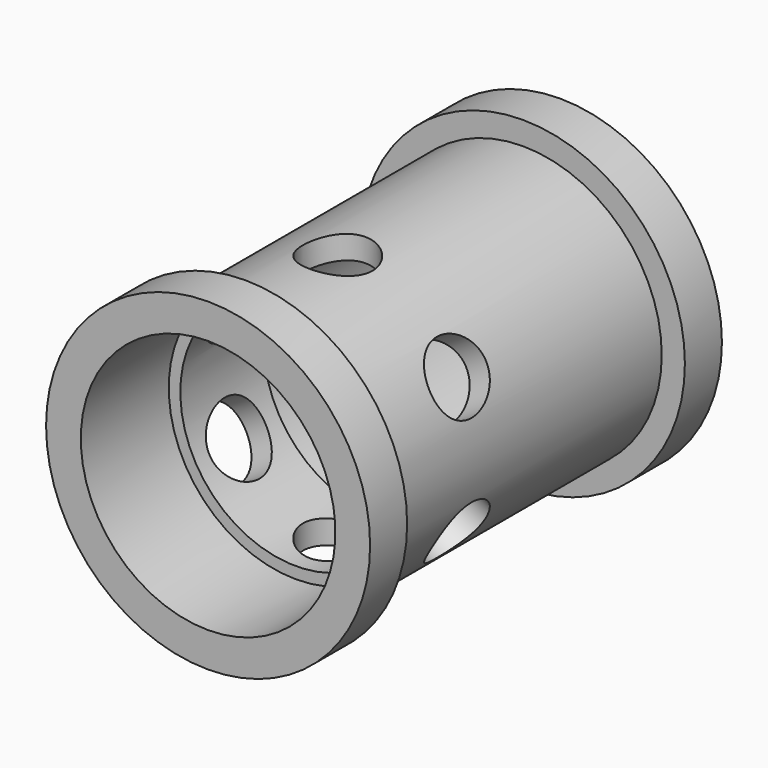
from build123d import *

# Parameters (mm, degrees)
F2_R     = 3
F3_DEPTH = 25.4
F4_COUNT = 6


with BuildPart() as f1:
    # F0 (on Right) → F1 (revolve)
    with BuildSketch(Plane.YZ):
        Polygon((-15, 14), (-19, 14), (-19, 11), (-9.5, 11), (-9.5, 10), (-0.5, 10), (-0.5, 11), (19, 11), (19, 14), (15, 14), (15, 12), (-15, 12), align=None)
    revolve(axis=Axis((0, 0, 0), (0, 1, 0)))

    # F2 (on Top) → F3 (cut)
    with BuildSketch(Plane.XY):
        with Locations((0, -5)):
            Circle(F2_R)
    f3 = extrude(amount=-F3_DEPTH, mode=Mode.SUBTRACT)

    # F4: F3 ×6 about axis
    f4_axis = Axis((0, -19, 0), (0, 1, 0))
    for i in range(1, F4_COUNT):
        add(f3.rotate(f4_axis, i * 360 / F4_COUNT), mode=Mode.SUBTRACT)


solid = f1.part
